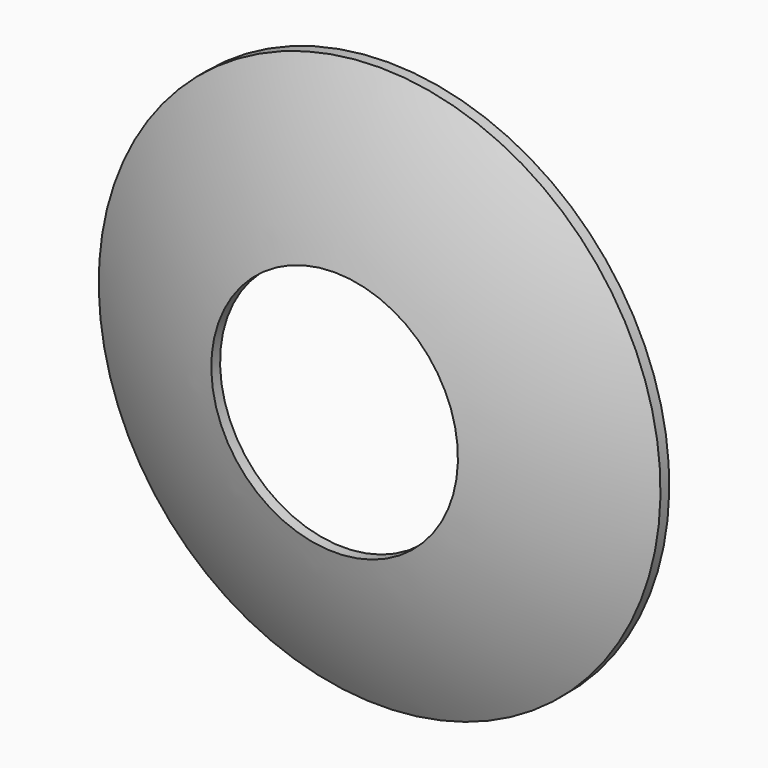
from build123d import *


with BuildPart() as f1:
    # F0 (on Right) → F1 (revolve)
    with BuildSketch(Plane.YZ):
        with BuildLine():
            ThreePointArc((-39.271364, 20.5), (-41.721879, 14.892106), (-43.376146, 9))
            Line((-43.376146, 9), (-42.576146, 9))
            ThreePointArc((-42.576146, 9), (-40.929273, 14.894745), (-38.471364, 20.5))
            Line((-38.471364, 20.5), (-39.271364, 20.5))
        make_face()
    revolve(axis=Axis((0, -21.688073, 0), (0, -1, 0)))


solid = f1.part
